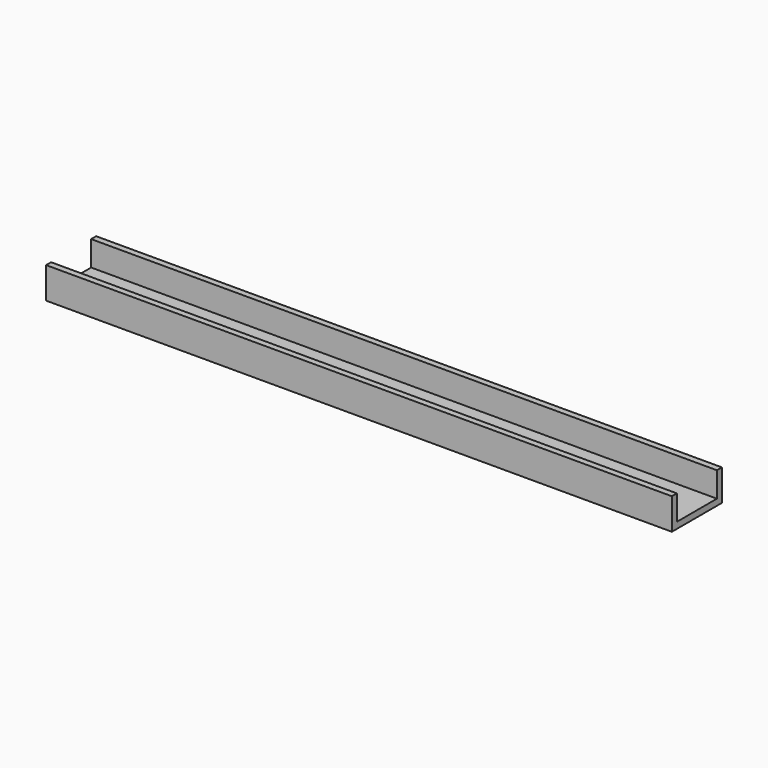
from build123d import *

# Parameters (mm, degrees)
F0_W     = 254
F0_H     = 25.4
F1_DEPTH = 12.7
F2_T     = -2.54


with BuildPart() as f1:
    # F0 (on Top) → F1 (new body)
    with BuildSketch(Plane.XY):
        with Locations((10.618374, -17.003675)):
            Rectangle(F0_W, F0_H)
    extrude(amount=F1_DEPTH)

    # F2
    f2_openings = [f1.faces().sort_by_distance(p)[0] for p in [
        (10.618374, -17.003675, 12.7),
        (137.618374, -17.003675, 6.35),
        (-116.381626, -17.003675, 6.35),
    ]]
    offset(amount=F2_T, openings=f2_openings)


solid = f1.part
